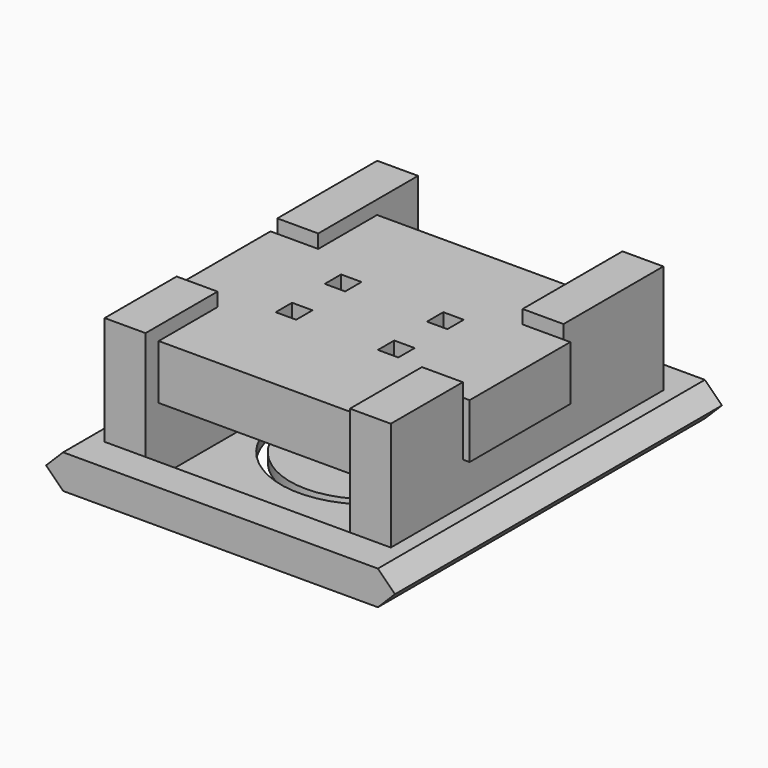
from build123d import *

# Parameters (mm, degrees)
F1_DEPTH  = 30
F2_W      = 15
F2_H      = 25
F3_DEPTH  = 1.8
F5_DEPTH  = 25
F6_W      = 3
F6_H      = 25
F7_DEPTH  = 8
F8_W      = 3.5
F8_H      = 9.235818446
F8_W_2    = 15
F8_H_2    = 5.3992085159
F9_DEPTH  = 5
F10_DEPTH = 5
F11_DEPTH = 1
F12_W     = 1.5
F12_H     = 1.5
F13_DEPTH = 25
F14_W     = 6
F14_H     = 6
F15_DEPTH = 2


with BuildPart() as f1:
    # F0 (on Front) → F1 (new body)
    with BuildSketch(Plane.XZ):
        Polygon((11.55, 1.25), (-11.55, 1.25), (-12.8, 0), (-11.55, -1.25), (11.55, -1.25), (12.8, 0), align=None)
    extrude(amount=F1_DEPTH)

    # F2 (on face) → F3 (cut)
    with BuildSketch(Plane.XY.offset(1.25)):
        with Locations((0, -15)):
            Rectangle(F2_W, F2_H)
    extrude(amount=-F3_DEPTH, mode=Mode.SUBTRACT)

    # F4 (on face) → F5 (cut)
    with BuildSketch(Plane.XY.offset(-0.55)):
        with BuildLine():
            Line((-3.2023354433, -3.6977706477), (-3.2023354433, -10.5899553333))
            ThreePointArc((-3.2023354433, -10.5899553333), (0, -22.8055495128), (3.2023354433, -10.5899553333))
            Line((3.2023354433, -10.5899553333), (3.2023354433, -3.6977706477))
            Line((3.2023354433, -3.6977706477), (2.4318161886, -3.6977706477))
            Line((2.4318161886, -3.6977706477), (2.4318161886, -10.996280238))
            ThreePointArc((2.4318161886, -10.996280238), (0, -22.1541997733), (-2.4318161886, -10.996280238))
            Line((-2.4318161886, -10.996280238), (-2.4318161886, -3.6977706477))
            Line((-2.4318161886, -3.6977706477), (-3.2023354433, -3.6977706477))
        make_face()
    extrude(amount=-F5_DEPTH, mode=Mode.SUBTRACT)

    # F6 (on face) → F7 (join)
    with BuildSketch(Plane.XY.offset(1.25)):
        with Locations((-9, -15)):
            Rectangle(F6_W, F6_H)
        with Locations((9, -15)):
            Rectangle(F6_W, F6_H)
    extrude(amount=F7_DEPTH)

    # F8 (on face) → F9 (cut)
    with BuildSketch(Plane.XY.offset(9.25)):
        with Locations((9.25, -16.2780040203)):
            Rectangle(F8_W, F8_H)
        with Locations((0, -23.5955175012)):
            Rectangle(F8_W_2, F8_H_2)
        with Locations((0, -16.2780040203)):
            Rectangle(F8_W_2, F8_H)
        with Locations((-9.25, -16.2780040203)):
            Rectangle(F8_W, F8_H)
        with Locations((0, -8.9604905394)):
            Rectangle(F8_W_2, F8_H_2)
    extrude(amount=-F9_DEPTH, mode=Mode.SUBTRACT)


with BuildPart() as f10:
    # F8 (on face) → F10 (new body)
    with BuildSketch(Plane.XY.offset(9.25)):
        with Locations((9.25, -16.2780040203)):
            Rectangle(F8_W, F8_H)
        with Locations((0, -23.5955175012)):
            Rectangle(F8_W_2, F8_H_2)
        with Locations((0, -16.2780040203)):
            Rectangle(F8_W_2, F8_H)
        with Locations((-9.25, -16.2780040203)):
            Rectangle(F8_W, F8_H)
        with Locations((0, -8.9604905394)):
            Rectangle(F8_W_2, F8_H_2)
    extrude(amount=-F10_DEPTH)

    # F8 (on face) → F11 (cut)
    with BuildSketch(Plane.XY.offset(9.25)):
        with Locations((9.25, -16.2780040203)):
            Rectangle(F8_W, F8_H)
        with Locations((0, -23.5955175012)):
            Rectangle(F8_W_2, F8_H_2)
        with Locations((0, -16.2780040203)):
            Rectangle(F8_W_2, F8_H)
        with Locations((-9.25, -16.2780040203)):
            Rectangle(F8_W, F8_H)
        with Locations((0, -8.9604905394)):
            Rectangle(F8_W_2, F8_H_2)
    extrude(amount=-F11_DEPTH, mode=Mode.SUBTRACT)

    # F12 (on face) → F13 (cut)
    with BuildSketch(Plane(origin=(0, 0, 4.25), x_dir=(1, 0, 0), z_dir=(0, 0, -1))):
        with Locations((-3.75, 18.5602385438)):
            Rectangle(F12_W, F12_H)
        with Locations((3.75, 18.5602385438)):
            Rectangle(F12_W, F12_H)
        with Locations((3.75, 14.0602385438)):
            Rectangle(F12_W, F12_H)
        with Locations((-3.75, 14.0602385438)):
            Rectangle(F12_W, F12_H)
    extrude(amount=-F13_DEPTH, mode=Mode.SUBTRACT)

    # F14 (on face) → F15 (cut)
    with BuildSketch(Plane(origin=(0, 0, 4.25), x_dir=(1, 0, 0), z_dir=(0, 0, -1))):
        with Locations((0, 16.3102385438)):
            Rectangle(F14_W, F14_H)
    extrude(amount=-F15_DEPTH, mode=Mode.SUBTRACT)


solid = Compound([f1.part, f10.part])
